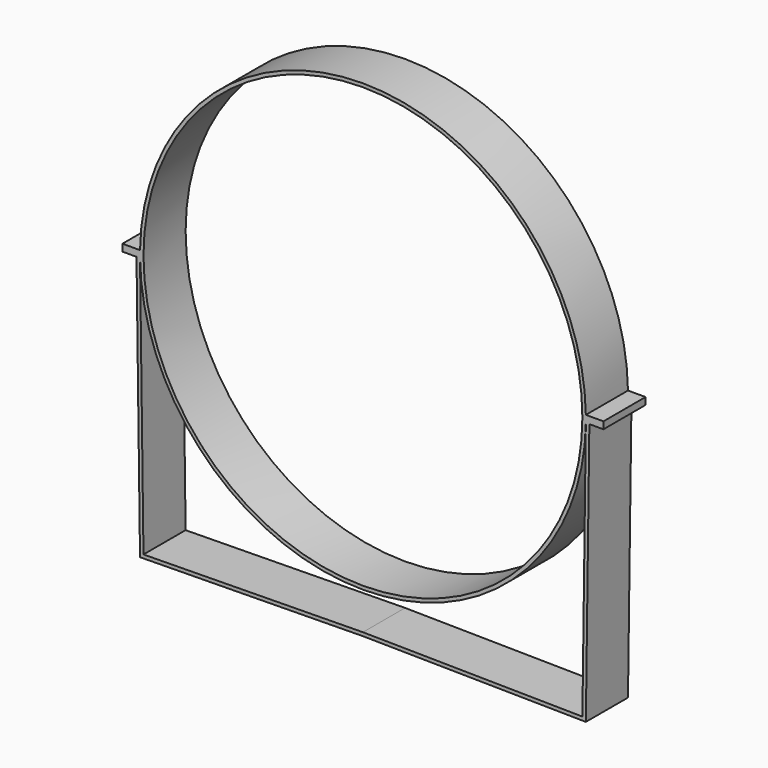
from build123d import *

# Parameters (mm, degrees)
F0_R     = 250
F1_DEPTH = 60


with BuildPart() as f1:
    # F0 (on Front) → F1 (new body)
    with BuildSketch(Plane.XZ):
        with BuildLine():
            ThreePointArc((253.968502, -4), (253.992125, -2.000062), (254, 0))
            ThreePointArc((254, 0), (253.992125, 2.000062), (253.968502, 4))
            ThreePointArc((253.968502, 4), (0, 254), (-253.968502, 4))
            ThreePointArc((-253.968502, 4), (-254, 0), (-253.968502, -4))
            ThreePointArc((-253.968502, -4), (0, -254), (253.968502, -4))
        make_face()
        Circle(F0_R, mode=Mode.SUBTRACT)
        with BuildLine():
            ThreePointArc((253.968502, 4), (253.992125, 2.000062), (254, 0))
            ThreePointArc((254, 0), (253.992125, -2.000062), (253.968502, -4))
            Line((253.968502, -4), (257.968858, -4))
            Line((257.968858, -4), (273.968502, -4))
            Line((273.968502, -4), (273.968502, 0))
            Line((273.968502, 0), (273.968502, 4))
            Line((273.968502, 4), (253.968502, 4))
        make_face()
        Polygon((257.968858, -4), (253.968502, -4), (250.022196, -299.920345), (0, -296.586123), (-250.022196, -299.920345), (-253.968502, -4), (-257.968858, -4), (-253.968502, -303.973327), (0, -300.586478), (253.968502, -303.973327), align=None)
        with BuildLine():
            ThreePointArc((-253.968502, -4), (-254, 0), (-253.968502, 4))
            Line((-253.968502, 4), (-273.968502, 4))
            Line((-273.968502, 4), (-273.968502, 0))
            Line((-273.968502, 0), (-273.968502, -4))
            Line((-273.968502, -4), (-257.968858, -4))
            Line((-257.968858, -4), (-253.968502, -4))
        make_face()
    extrude(amount=F1_DEPTH)


solid = f1.part
